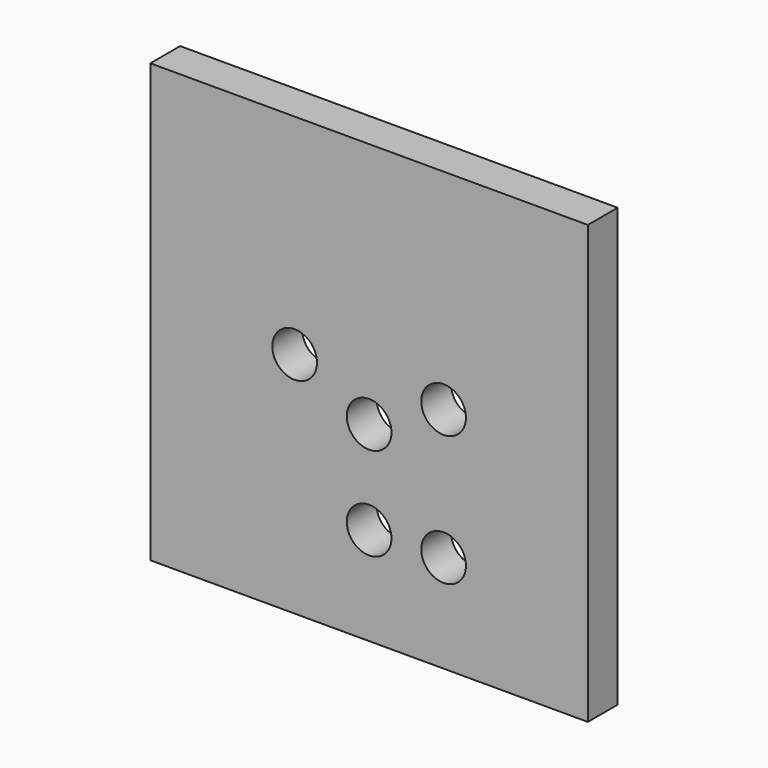
from build123d import *

# Parameters (mm, degrees)
F0_W     = 298.45
F0_H     = 298.45
F0_R     = 15.24
F1_DEPTH = 25.4


with BuildPart() as f1:
    # F0 (on Front) → F1 (new body)
    with BuildSketch(Plane.XZ):
        Rectangle(F0_W, F0_H)
        with Locations((0, -82.55)):
            Circle(F0_R, mode=Mode.SUBTRACT)
        with Locations((50.8, -82.55)):
            Circle(F0_R, mode=Mode.SUBTRACT)
        with Locations((0, -19.05)):
            Circle(F0_R, mode=Mode.SUBTRACT)
        with Locations((-50.8, 6.35)):
            Circle(F0_R, mode=Mode.SUBTRACT)
        with Locations((50.8, 6.35)):
            Circle(F0_R, mode=Mode.SUBTRACT)
    extrude(amount=F1_DEPTH)


solid = f1.part
